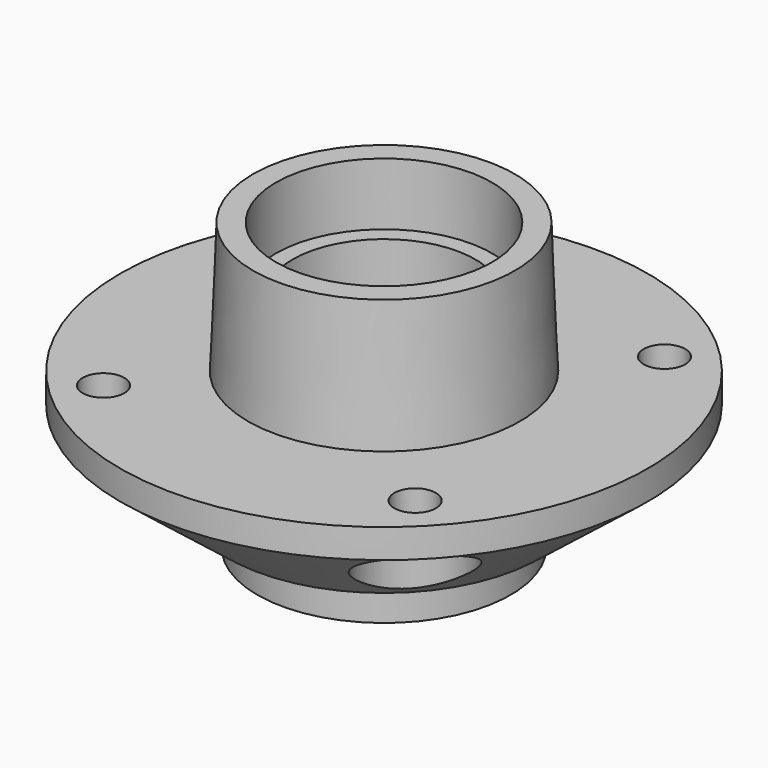
from build123d import *

# Parameters (mm, degrees)
F0_R     = 5
F3_DEPTH = 25
F5_R     = 12.5
F6_DEPTH = 25


with BuildPart() as f2:
    # F1 (on Front) → F2 (revolve)
    with BuildSketch(Plane.XZ):
        Polygon((-31.5, 31.5), (-32.75, 0), (-63.5, 0), (-63.5, -7), (-37.5, -27.5), (-30.5, -27.5), (-30.5, -37.5), (-26, -37.5), (-26, -22.5), (-22, -22.5), (-22, 16.5), (-26, 16.5), (-26, 31.5), align=None)
    revolve(axis=Axis((0, 0, 30.379497), (0, 0, 1)))

    # F0 (on Top) → F3 (cut)
    with BuildSketch(Plane.XY):
        with Locations((-37.5, 37.5)):
            Circle(F0_R)
        with Locations((-37.5, -37.5)):
            Circle(F0_R)
        with Locations((37.5, -37.5)):
            Circle(F0_R)
        with Locations((37.5, 37.5)):
            Circle(F0_R)
    extrude(amount=-F3_DEPTH, mode=Mode.SUBTRACT)

    # F5 (on offset) → F6 (cut)
    with BuildSketch(Plane.XY.offset(-7)):
        with Locations((-37.5, 37.5)):
            Circle(F5_R)
        with Locations((37.5, 37.5)):
            Circle(F5_R)
        with Locations((-37.5, -37.5)):
            Circle(F5_R)
        with Locations((37.5, -37.5)):
            Circle(F5_R)
    extrude(amount=-F6_DEPTH, mode=Mode.SUBTRACT)


solid = f2.part
